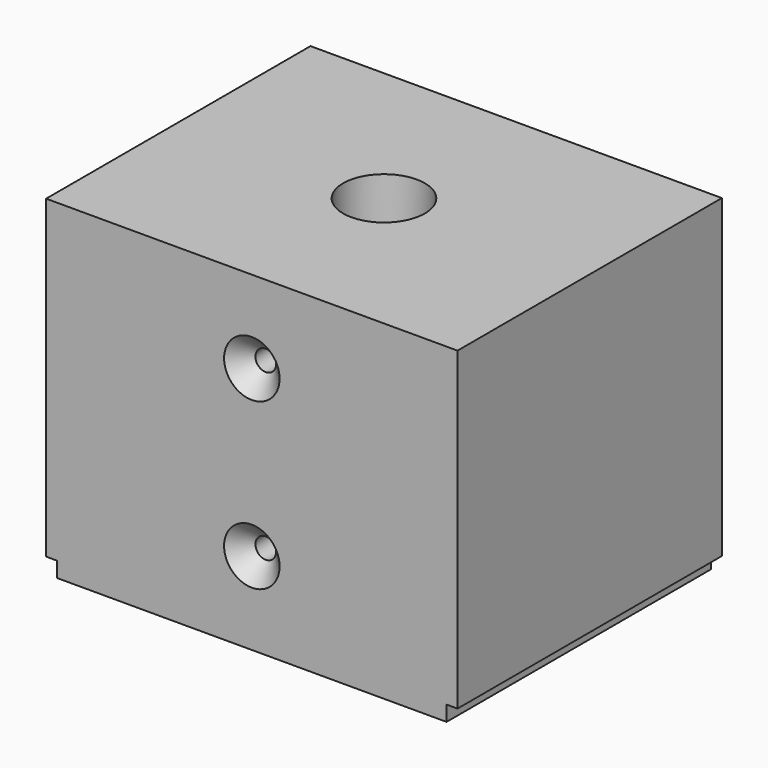
from build123d import *

# Parameters (mm, degrees)
F1_DEPTH        = 40
F2_R            = 7.5
F3_DEPTH        = 5
F10_D           = 2.5
F10_DEPTH       = 16
F10_CSINK_D     = 6.72
F10_CSINK_ANGLE = 90
F10_TIP         = 0.7510757738


with BuildPart() as f1:
    # F0 (on Front) → F1 (new body)
    with BuildSketch(Plane.XZ):
        Polygon((24.9, 40), (-24.9, 40), (-24.9, 1.85), (-23.575, 1.85), (-23.575, 0), (23.575, 0), (23.575, 1.85), (24.9, 1.85), align=None)
    extrude(amount=F1_DEPTH)

    # F2 (on face) → F3 (join)
    with BuildSketch(Plane(origin=(0, 0, 0), x_dir=(1, 0, 0), z_dir=(0, 0, -1))):
        with Locations((0, 20)):
            Circle(F2_R)
    extrude(amount=F3_DEPTH)


with BuildPart() as f7:
    # F6 (on line) → F7 (revolve)
    with BuildSketch(Plane(origin=(0, -20, 0), x_dir=(-1, 0, 0), z_dir=(0, 1, 0))):
        Polygon((4.8, 0), (4.95, 40), (0, 40), (0, 0), (0, -5), (4.65, -5), (4.715, 0), align=None)
    revolve(axis=Axis((0, -20, 30.4776426257), (0, 0, 1)))


with BuildPart() as f1_1:
    add(f1.part)

    # F8: cut F7
    add(f7.part, mode=Mode.SUBTRACT)

    # F10
    with Locations(Plane.XZ.offset(40)):
        with Locations((0, 30), (0, 10)):
            CounterSinkHole(F10_D / 2, F10_CSINK_D / 2, depth=F10_DEPTH, counter_sink_angle=F10_CSINK_ANGLE)
            with Locations((0, 0, -(F10_DEPTH + F10_TIP / 2))):  # 118° drill point
                Cone(0, F10_D / 2, F10_TIP, mode=Mode.SUBTRACT)


solid = f1_1.part
